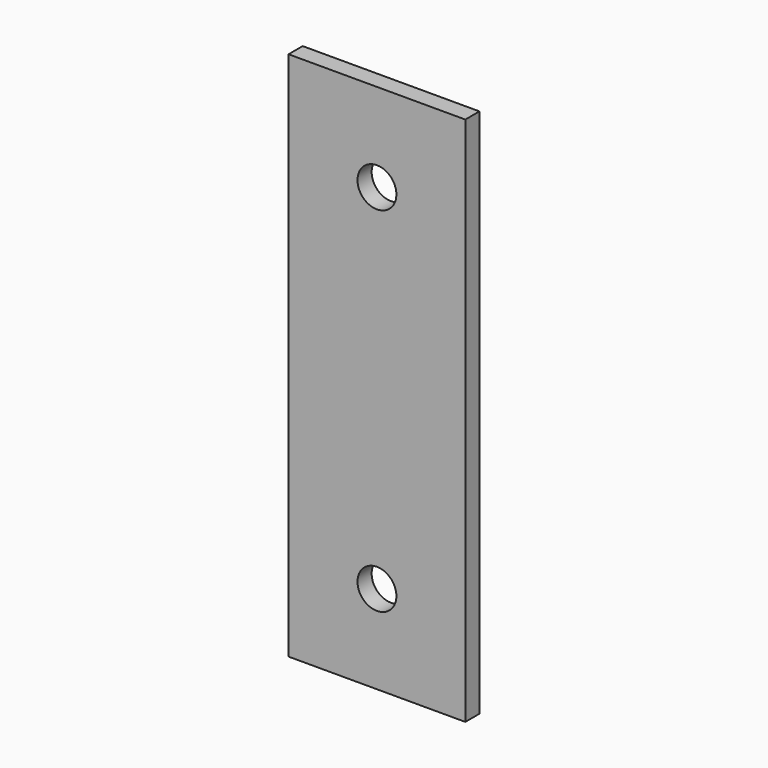
from build123d import *

# Parameters (mm, degrees)
F0_W     = 50
F0_H     = 150
F0_R     = 5.5
F1_DEPTH = 2.5


with BuildPart() as f1:
    # F0 (on Front) → F1 (new body, symmetric)
    with BuildSketch(Plane.XZ):
        Rectangle(F0_W, F0_H)
        with Locations((0, -50)):
            Circle(F0_R, mode=Mode.SUBTRACT)
        with Locations((0, 50)):
            Circle(F0_R, mode=Mode.SUBTRACT)
    extrude(amount=F1_DEPTH, both=True)


solid = f1.part
